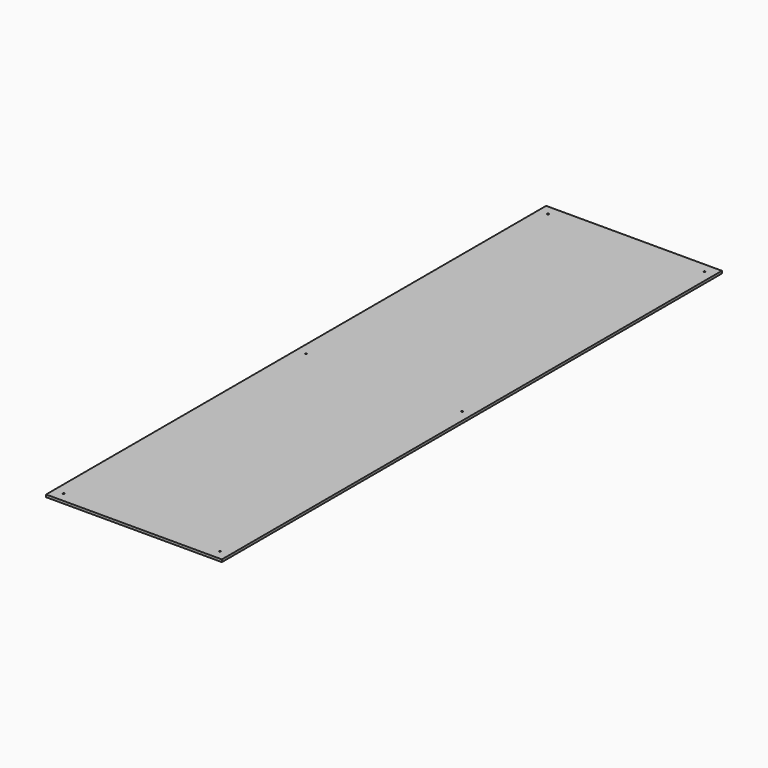
from build123d import *

# Parameters (mm, degrees)
F0_W     = 457.2
F0_H     = 1625.6
F1_DEPTH = 6.35
F2_R     = 2.15265
F3_DEPTH = 6.35


with BuildPart() as f1:
    # F0 (on Top) → F1 (new body)
    with BuildSketch(Plane.XY):
        Rectangle(F0_W, F0_H)
    extrude(amount=F1_DEPTH)

    # F2 (on face) → F3 (cut, through all)
    with BuildSketch(Plane.XY.offset(6.35)):
        with Locations((-203.2, -787.4)):
            Circle(F2_R)
        with Locations((203.2, -787.4)):
            Circle(F2_R)
        with Locations((203.2, 0)):
            Circle(F2_R)
        with Locations((-203.2, 0)):
            Circle(F2_R)
        with Locations((-203.2, 787.4)):
            Circle(F2_R)
        with Locations((203.2, 787.4)):
            Circle(F2_R)
    extrude(amount=-F3_DEPTH, mode=Mode.SUBTRACT)


solid = f1.part
